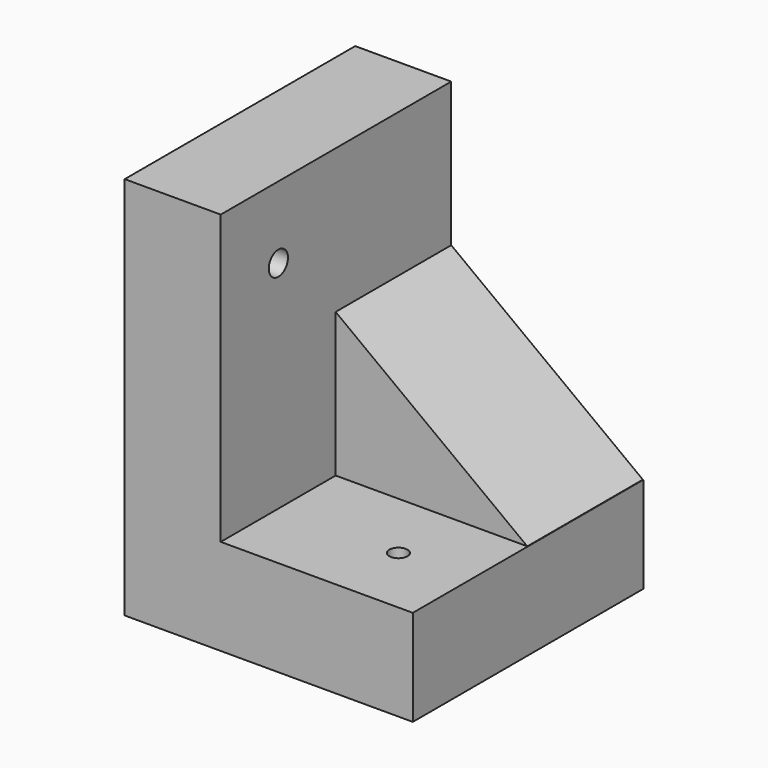
from build123d import *

# Parameters (mm, degrees)
F1_DEPTH = 152.4
F2_W     = 101.356273
F2_H     = 76.407738
F3_DEPTH = 76.2
F5_DEPTH = 84.108479
F7_D     = 9.525
F9_D     = 12.7


with BuildPart() as f1:
    # F0 (on Front) → F1 (new body)
    with BuildSketch(Plane.XZ):
        Polygon((28.823013, 0), (28.823013, 152.4), (-21.976987, 152.4), (-21.976987, -50.8), (130.423013, -50.8), (130.423013, 0), align=None)
    extrude(amount=F1_DEPTH)

    # F2 (on face) → F3 (join)
    with BuildSketch(Plane.XY):
        with Locations((79.501149, -38.203869)):
            Rectangle(F2_W, F2_H)
    extrude(amount=F3_DEPTH)

    # F4 (on face) → F5 (cut)
    with BuildSketch(Plane.XZ.offset(76.407738)):
        Polygon((130.179286, 76.2), (28.823013, 76.2), (130.179286, 0), align=None)
    extrude(amount=-F5_DEPTH, mode=Mode.SUBTRACT)

    # F7 (through all)
    with Locations(Plane.XY):
        with Locations((92.323013, -114.3)):
            Hole(F7_D / 2)

    # F9 (through all)
    with Locations(Plane.YZ.offset(28.823013)):
        with Locations((-114.3, 114.3)):
            Hole(F9_D / 2)


solid = f1.part
